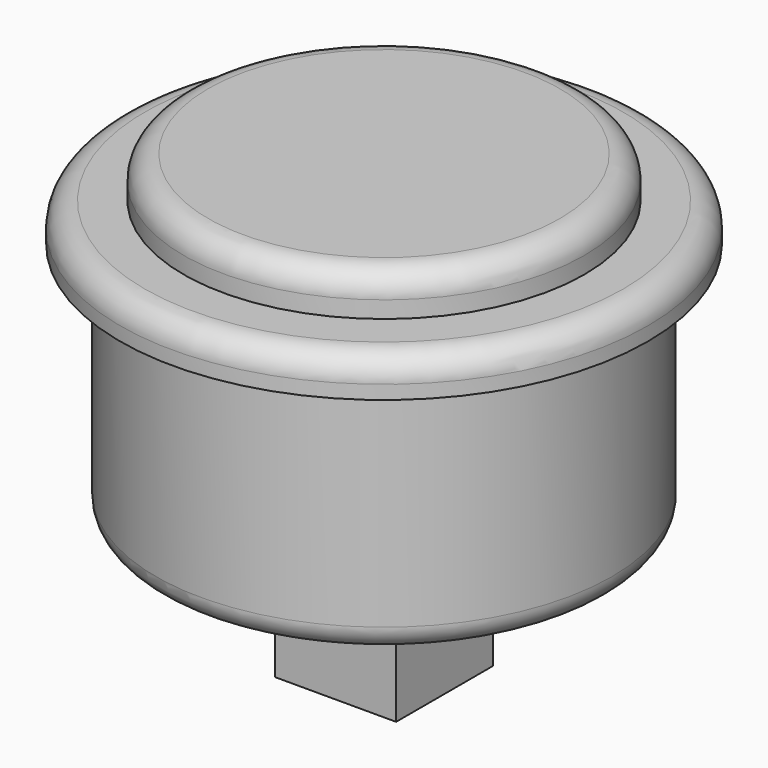
from build123d import *

# Parameters (mm, degrees)
F0_R      = 17.25
F1_DEPTH  = 2.5
F2_R      = 1.6
F3_R      = 13.1
F4_DEPTH  = 2.7
F5_R      = 1.6
F6_R      = 14.9
F7_DEPTH  = 15.9
F8_R      = 1.6
F9_W      = 7.929822
F9_H      = 7.929822
F10_DEPTH = 8.7


with BuildPart() as f1:
    # F0 (on Top) → F1 (new body)
    with BuildSketch(Plane.XY):
        Circle(F0_R)
    extrude(amount=F1_DEPTH)

    # F2
    f2_edges = [f1.edges().sort_by_distance(p)[0] for p in [
        (-17.25, 0, 2.5),
    ]]
    fillet(f2_edges, radius=F2_R)

    # F3 (on face) → F4 (join)
    with BuildSketch(Plane.XY.offset(2.5)):
        Circle(F3_R)
    extrude(amount=F4_DEPTH)

    # F5
    f5_edges = [f1.edges().sort_by_distance(p)[0] for p in [
        (-13.1, 0, 5.2),
    ]]
    fillet(f5_edges, radius=F5_R)

    # F6 (on face) → F7 (join)
    with BuildSketch(Plane(origin=(0, 0, 0), x_dir=(1, 0, 0), z_dir=(0, 0, -1))):
        Circle(F6_R)
    extrude(amount=F7_DEPTH)

    # F8
    f8_edges = [f1.edges().sort_by_distance(p)[0] for p in [
        (-14.9, 0, -15.9),
    ]]
    fillet(f8_edges, radius=F8_R)


with BuildPart() as f10:
    # F9 (on face) → F10 (new body, symmetric)
    with BuildSketch(Plane(origin=(0, 0, -15.9), x_dir=(1, 0, 0), z_dir=(0, 0, -1))):
        Rectangle(F9_W, F9_H)
    extrude(amount=F10_DEPTH, both=True)


solid = Compound([f1.part, f10.part])
